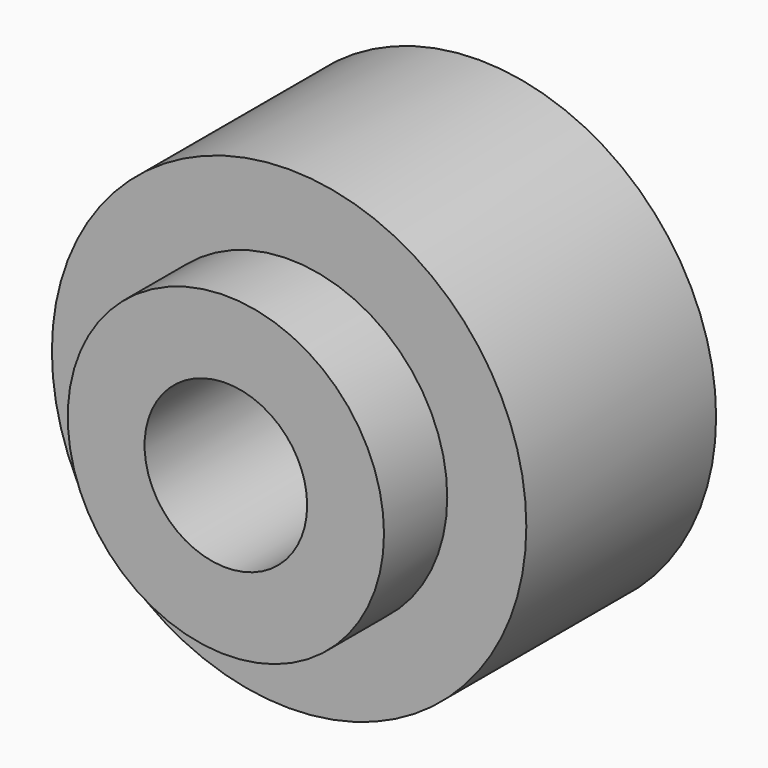
from build123d import *

# Parameters (mm, degrees)
F0_R     = 9.525
F0_R_2   = 3.2639
F1_DEPTH = 12.7
F2_R     = 9.525
F2_R_2   = 6.35
F3_DEPTH = 3.175


with BuildPart() as f1:
    # F0 (on Front) → F1 (new body)
    with BuildSketch(Plane.XZ):
        Circle(F0_R)
        Circle(F0_R_2, mode=Mode.SUBTRACT)
        Circle(F0_R)
        Circle(F0_R_2, mode=Mode.SUBTRACT)
    extrude(amount=F1_DEPTH)

    # F2 (on face) → F3 (cut)
    with BuildSketch(Plane.XZ.offset(12.7)):
        Circle(F2_R)
        Circle(F2_R_2, mode=Mode.SUBTRACT)
    extrude(amount=-F3_DEPTH, mode=Mode.SUBTRACT)


solid = f1.part
